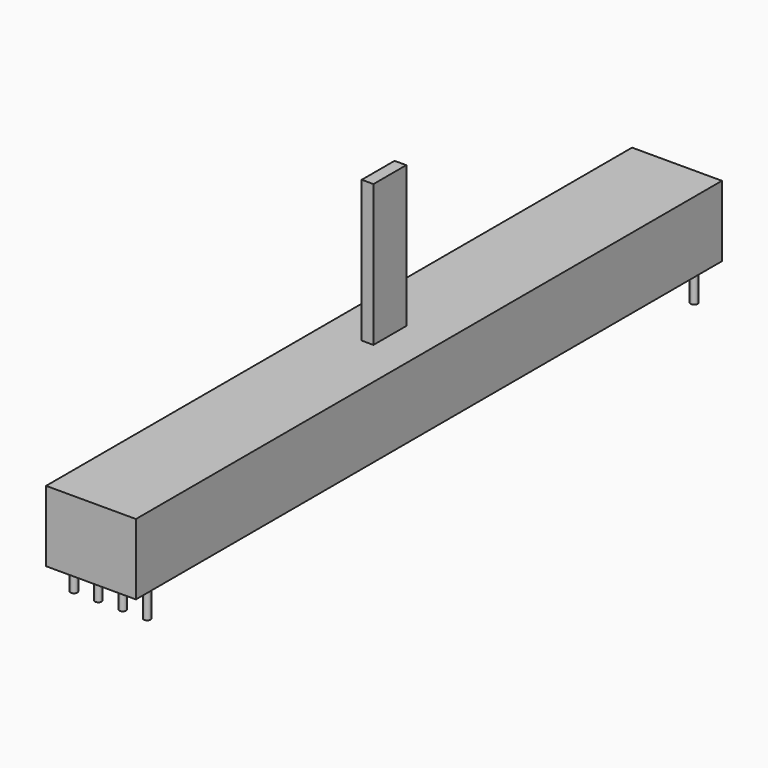
from build123d import *

# Parameters (mm, degrees)
SKETCH_W     = 9.2
SKETCH_H     = 75
PAD_DEPTH    = 7.25
SKETCH001_W  = 4.2
SKETCH001_H  = 20.5
PAD001_DEPTH = 1.2
SKETCH002_R  = 0.35
PAD002_DEPTH = 3


with BuildPart() as part:
    # Sketch → Pad (new body)
    with BuildSketch(Plane.XY):
        Rectangle(SKETCH_W, SKETCH_H)
    extrude(amount=PAD_DEPTH)

    # Sketch001 (on Face2 of Pad) → Pad001 (join)
    with BuildSketch(Plane.YZ.offset(0.6)):
        with Locations((0, 11.5)):
            Rectangle(SKETCH001_W, SKETCH001_H)
    extrude(amount=-PAD001_DEPTH)

    # Sketch002 (on Face4 of Pad001) → Pad002 (join)
    with BuildSketch(Plane(origin=(0, 0, 0), x_dir=(1, 0, 0), z_dir=(0, 0, -1))):
        with Locations((-3.75, 35)):
            Circle(SKETCH002_R)
        with Locations((-1.25, 35)):
            Circle(SKETCH002_R)
        with Locations((1.25, 35)):
            Circle(SKETCH002_R)
        with Locations((3.75, 35)):
            Circle(SKETCH002_R)
        with Locations((3.75, -35)):
            Circle(SKETCH002_R)
        with Locations((-1.25, -35)):
            Circle(SKETCH002_R)
    extrude(amount=PAD002_DEPTH)


solid = part.part
